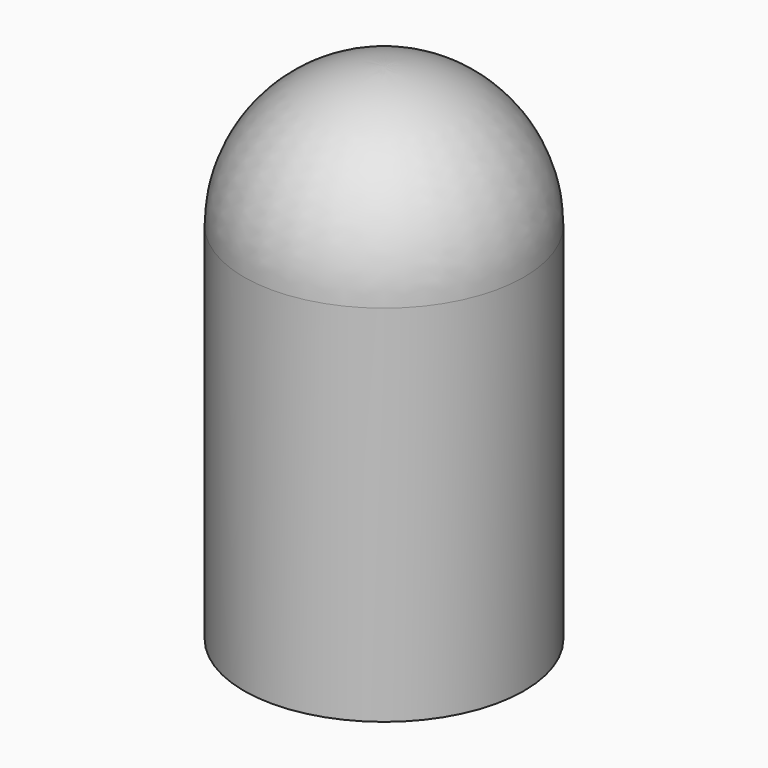
from build123d import *


with BuildPart() as f1:
    # F0 (on Front) → F1 (revolve)
    with BuildSketch(Plane.XZ):
        with BuildLine():
            Line((0, 0), (0, 9))
            ThreePointArc((0, 9), (-1.767767, 8.267767), (-2.5, 6.5))
            Line((-2.5, 6.5), (-2.5, 0))
            Line((-2.5, 0), (0, 0))
        make_face()
    revolve(axis=Axis((0, 0, 4.5), (0, 0, -1)))


solid = f1.part
